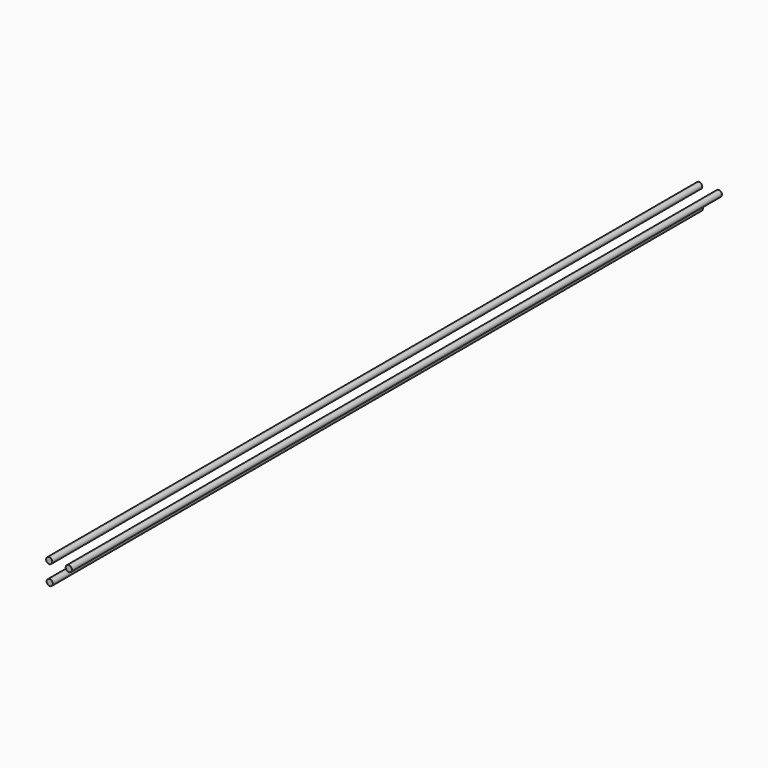
from build123d import *

# Parameters (mm, degrees)
F0_R     = 11.433958
F1_DEPTH = 2997.2
F2_R     = 11.445819
F3_DEPTH = 2997.2
F4_R     = 11.453723
F5_DEPTH = 2997.2


with BuildPart() as f1:
    # F0 (on Front) → F1 (new body)
    with BuildSketch(Plane.XZ):
        with Locations((-53.690922, 27.522238)):
            Circle(F0_R)
    extrude(amount=F1_DEPTH)


with BuildPart() as f3:
    # F2 (on Front) → F3 (new body)
    with BuildSketch(Plane.XZ):
        with Locations((18.799342, 25.11592)):
            Circle(F2_R)
    extrude(amount=F3_DEPTH)


with BuildPart() as f5:
    # F4 (on Front) → F5 (new body)
    with BuildSketch(Plane.XZ):
        with Locations((-51.585395, -43.163292)):
            Circle(F4_R)
    extrude(amount=F5_DEPTH)


solid = Compound([f1.part, f3.part, f5.part])
